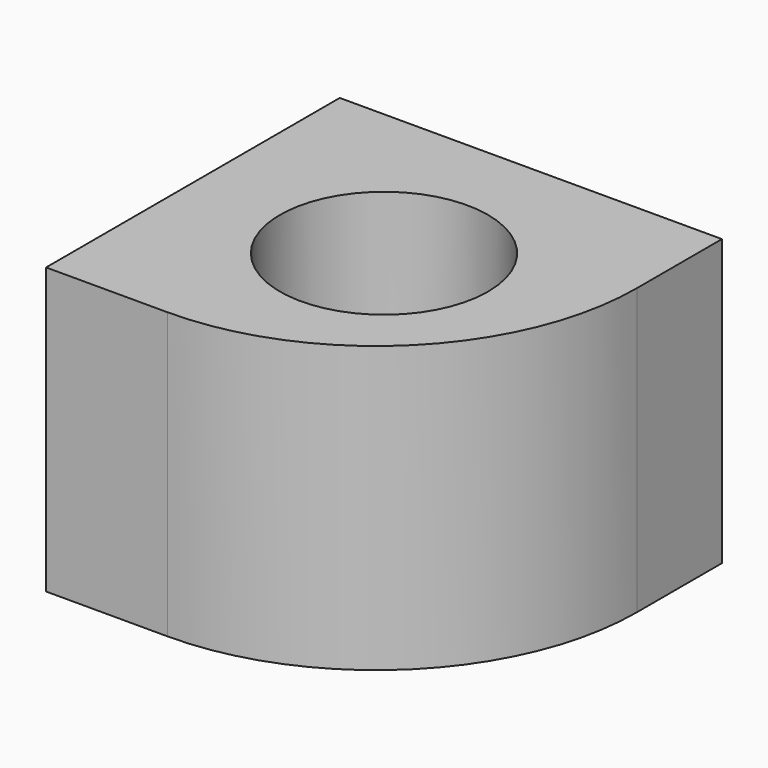
from build123d import *

# Parameters (mm, degrees)
F0_R     = 9.111657
F1_DEPTH = 25


with BuildPart() as f1:
    # F0 (on Top) → F1 (new body)
    with BuildSketch(Plane.XY):
        with BuildLine():
            Line((16.741995, 16.081855), (-16.741995, 16.081855))
            Line((-16.741995, 16.081855), (-16.741995, -16.081855))
            Line((-16.741995, -16.081855), (-6.104384, -16.081855))
            ThreePointArc((-6.104384, -16.081855), (10.050445, -9.390305), (16.741995, 6.764524))
            Line((16.741995, 6.764524), (16.741995, 16.081855))
        make_face()
        Circle(F0_R, mode=Mode.SUBTRACT)
    extrude(amount=F1_DEPTH)


solid = f1.part
